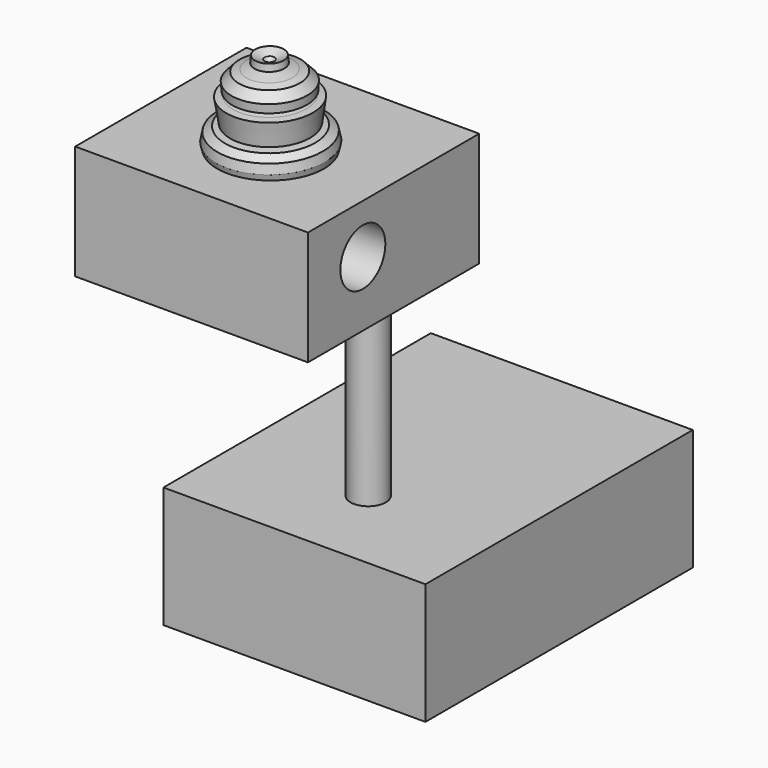
from build123d import *

# Parameters (mm, degrees)
F0_R     = 200
F1_DEPTH = 3000
F2_W     = 2631.0675144196
F2_H     = 1292.4540042877
F3_DEPTH = 2420
F4_W     = 2961.6948366165
F4_H     = 3777.9601812363
F5_DEPTH = 1370
F6_R     = 317.8019173966
F7_DEPTH = 3360


with BuildPart() as f1:
    # F0 (on Top) → F1 (new body)
    with BuildSketch(Plane.XY):
        Circle(F0_R)
    extrude(amount=F1_DEPTH)

    # F2 (on Front) → F3 (join)
    with BuildSketch(Plane.XZ):
        with Locations((-60.7503652573, 3366.2856817245)):
            Rectangle(F2_W, F2_H)
    extrude(amount=F3_DEPTH)

    # F4 (on Top) → F5 (join)
    with BuildSketch(Plane.XY):
        with Locations((-30.7685732841, 884.8100304604)):
            Rectangle(F4_W, F4_H)
    extrude(amount=-F5_DEPTH)

    # F6 (on face) → F7 (cut)
    with BuildSketch(Plane.YZ.offset(1254.7833919525)):
        with Locations((-1644.3647146225, 3452.9144763947)):
            Circle(F6_R)
    extrude(amount=-F7_DEPTH, mode=Mode.SUBTRACT)

    # F8 (on Right) → F9 (revolve)
    with BuildSketch(Plane.YZ):
        Polygon((-1393.48757267, 4848.7029075623), (-1375.0714063644, 3996.9544410706), (-778.7376543562, 3996.9544410706), (-753.525018692, 4102.8475761414), (-776.5452265739, 4204.1363716125), (-864.0221357346, 4259.3851089478), (-992.9354786873, 4268.5933113098), (-923.8747358322, 4287.0092391968), (-891.6463851929, 4554.0442466736), (-969.9152112007, 4563.2524490356), (-1085.0163698196, 4586.2722396851), (-960.7071280479, 4609.2925071716), (-956.1030864716, 4705.9774398804), (-1043.5799360275, 4798.0585098267), (-1131.0569047928, 4821.0787773132), (-1310.6147050858, 4857.9111099243), (-1223.1378555298, 4880.9313774109), (-1232.3459386826, 4959.2003822327), (-1338.2389545441, 4913.1598472595), align=None)
    revolve(axis=Axis((0, -1384.2794895172, 4422.8286743164), (0, 0.0216165497, -0.9997663351)))


solid = f1.part
